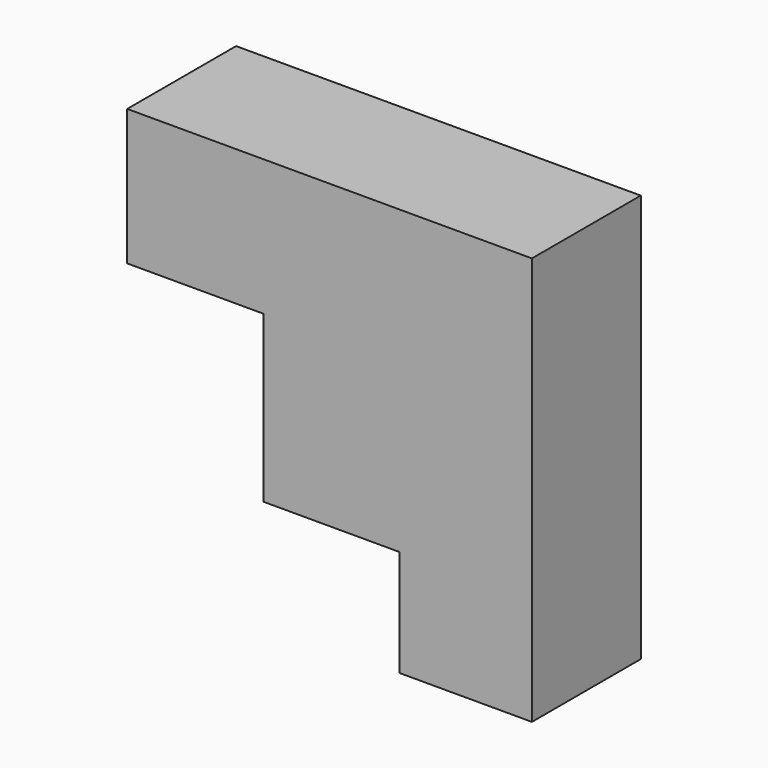
from build123d import *

# Parameters (mm, degrees)
F0_W      = 53.9978221059
F0_H      = 55.3920306265
F1_DEPTH  = 55.372
F2_W      = 55.3920306265
F2_H      = 55.372
F3_DEPTH  = 55.372
F4_W      = 55.3920306265
F4_H      = 55.372
F5_DEPTH  = 55.372
F6_W      = 53.9978221059
F6_H      = 55.3920306265
F7_DEPTH  = 55.372
F8_W      = 53.9978221059
F8_H      = 55.3920306265
F9_DEPTH  = 55.372
F10_W     = 55.3920306265
F10_H     = 67.3803910613
F11_DEPTH = 55.372


with BuildPart() as f1:
    # F0 (on Top) → F1 (new body)
    with BuildSketch(Plane.XY):
        with Locations((26.9989110529, -27.6960153133)):
            Rectangle(F0_W, F0_H)
    extrude(amount=F1_DEPTH)

    # F2 (on face) → F3 (join)
    with BuildSketch(Plane(origin=(0, 0, 0), x_dir=(0, -1, 0), z_dir=(-1, 0, 0))):
        with Locations((27.6960153133, 27.686)):
            Rectangle(F2_W, F2_H)
    extrude(amount=F3_DEPTH)

    # F4 (on face) → F5 (join)
    with BuildSketch(Plane(origin=(-55.372, 0, 0), x_dir=(0, -1, 0), z_dir=(-1, 0, 0))):
        with Locations((27.6960153133, 27.686)):
            Rectangle(F4_W, F4_H)
    extrude(amount=F5_DEPTH)

    # F6 (on face) → F7 (join)
    with BuildSketch(Plane(origin=(0, 0, 0), x_dir=(1, 0, 0), z_dir=(0, 0, -1))):
        with Locations((26.9989110529, 27.6960153133)):
            Rectangle(F6_W, F6_H)
    extrude(amount=F7_DEPTH)

    # F8 (on face) → F9 (join)
    with BuildSketch(Plane(origin=(0, 0, -55.372), x_dir=(1, 0, 0), z_dir=(0, 0, -1))):
        with Locations((26.9989110529, 27.6960153133)):
            Rectangle(F8_W, F8_H)
        with Locations((26.9989110529, 27.6960153133)):
            Rectangle(F8_W, F8_H)
    extrude(amount=F9_DEPTH)

    # F10 (on face) → F11 (join)
    with BuildSketch(Plane(origin=(0, 0, 0), x_dir=(0, -1, 0), z_dir=(-1, 0, 0))):
        with Locations((27.6960153133, -33.6901955307)):
            Rectangle(F10_W, F10_H)
    extrude(amount=F11_DEPTH)


solid = f1.part
